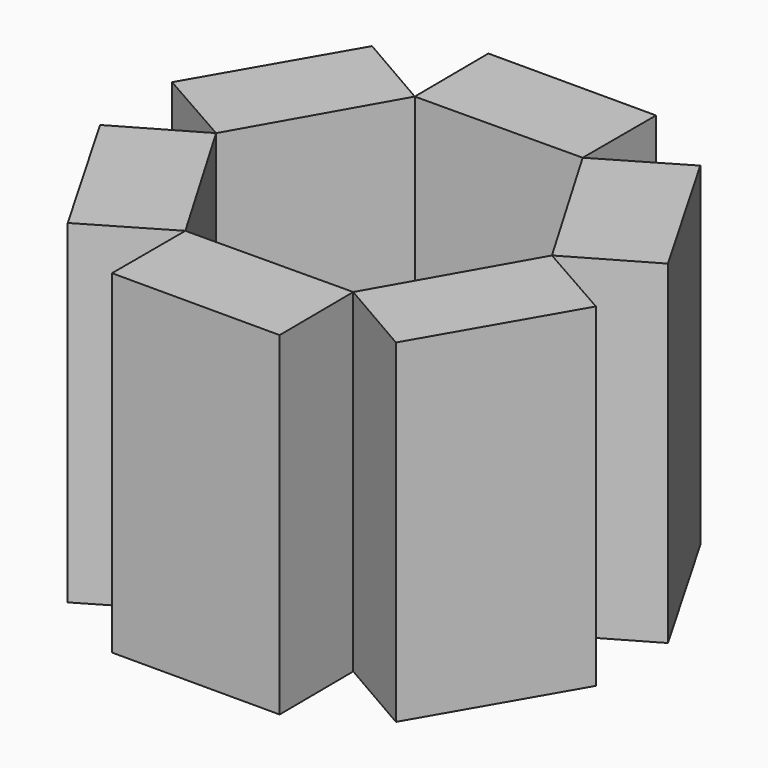
from build123d import *

# Parameters (mm, degrees)
F1_DEPTH = 31.75
F2_DEPTH = 228.6
F3_COUNT = 6


with BuildPart() as f1:
    # F0 (on Top) → F1 (new body)
    with BuildSketch(Plane.XY):
        Polygon((57.1486691264, 98.6988848143), (-57.1486691264, 97.9188410241), (-113.6218005145, -1.4555793829), (-55.7975936498, -100.0499559997), (58.4997446031, -99.2699122095), (114.9728759912, 0.1045081974), align=None)
    extrude(amount=F1_DEPTH)

    # F0 (on Top) → F2 (join)
    with BuildSketch(Plane.XY):
        Polygon((-57.5820267876, 161.4173622757), (-57.1486691264, 97.9188410241), (57.1486691264, 98.6988848143), (57.1486691264, 161.4173622757), align=None)
    extrude(amount=F2_DEPTH)


with BuildPart() as f3_1:
    # F3: instance of F1
    add(f1.part.rotate(Axis((0.6755377383, -0.6755355927, 0), (0, 0, 1)), 1 * 360 / F3_COUNT))


with BuildPart() as f3_2:
    # F3: instance of F1
    add(f1.part.rotate(Axis((0.6755377383, -0.6755355927, 0), (0, 0, 1)), 2 * 360 / F3_COUNT))


with BuildPart() as f3_3:
    # F3: instance of F1
    add(f1.part.rotate(Axis((0.6755377383, -0.6755355927, 0), (0, 0, 1)), 3 * 360 / F3_COUNT))


with BuildPart() as f3_4:
    # F3: instance of F1
    add(f1.part.rotate(Axis((0.6755377383, -0.6755355927, 0), (0, 0, 1)), 4 * 360 / F3_COUNT))


with BuildPart() as f3_5:
    # F3: instance of F1
    add(f1.part.rotate(Axis((0.6755377383, -0.6755355927, 0), (0, 0, 1)), 5 * 360 / F3_COUNT))


solid = Compound([f1.part, f3_1.part, f3_2.part, f3_3.part, f3_4.part, f3_5.part])
